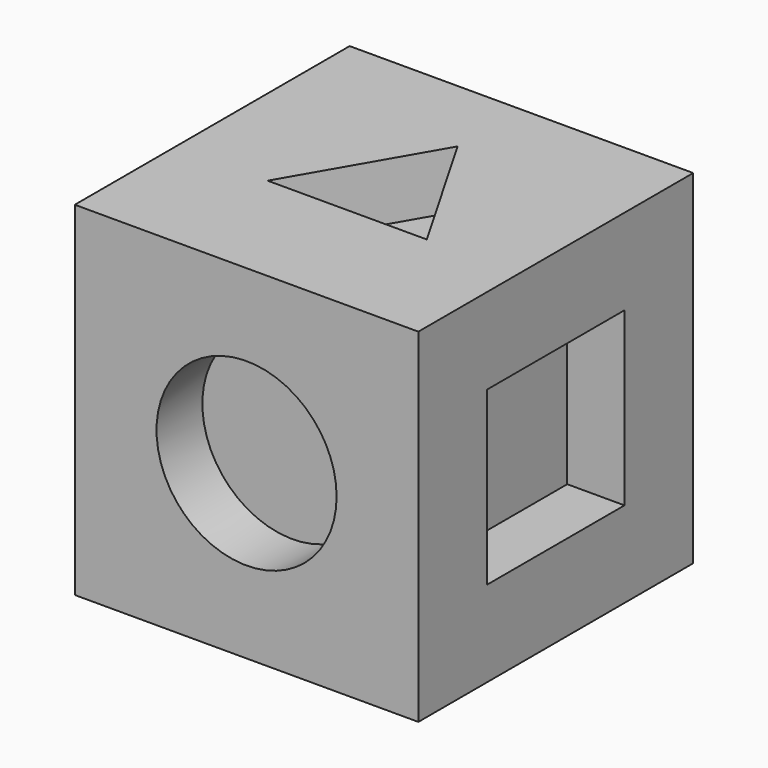
from build123d import *

# Parameters (mm, degrees)
F0_W      = 76.2
F0_H      = 76.2
F1_DEPTH  = 76.2
F2_R      = 19.9669900024
F3_DEPTH  = 12.7
F5_DEPTH  = 12.7
F6_W      = 38.1
F6_H      = 38.1
F7_DEPTH  = 12.7
F9_DEPTH  = 12.7
F11_DEPTH = 12.7
F13_DEPTH = 12.7


with BuildPart() as f1:
    # F0 (on Front) → F1 (new body)
    with BuildSketch(Plane.XZ):
        Rectangle(F0_W, F0_H)
    extrude(amount=F1_DEPTH)

    # F2 (on face) → F3 (cut)
    with BuildSketch(Plane.XZ.offset(76.2)):
        Circle(F2_R)
        Circle(F2_R)
    extrude(amount=-F3_DEPTH, mode=Mode.SUBTRACT)

    # F4 (on face) → F5 (cut)
    with BuildSketch(Plane.XY.offset(38.1)):
        Polygon((17.6528156414, -48.2918578625), (0, -17.716284275), (-17.6528156414, -48.2918578625), align=None)
    extrude(amount=-F5_DEPTH, mode=Mode.SUBTRACT)

    # F6 (on face) → F7 (cut)
    with BuildSketch(Plane.YZ.offset(38.1)):
        with Locations((-38.1, 0)):
            Rectangle(F6_W, F6_H)
    extrude(amount=-F7_DEPTH, mode=Mode.SUBTRACT)

    # F8 (on face) → F9 (cut)
    with BuildSketch(Plane(origin=(-38.1, 0, 0), x_dir=(0, -1, 0), z_dir=(-1, 0, 0))):
        Polygon((38.1, -11.9736748281), (50.0736748281, -23.9473496562), (62.0473496562, -11.9736748281), (50.0736748281, 0), (62.0473496562, 11.9736748281), (50.0736748281, 23.9473496562), (38.1, 11.9736748281), (26.1263251719, 23.9473496562), (14.1526503438, 11.9736748281), (26.1263251719, 0), (14.1526503438, -11.9736748281), (26.1263251719, -23.9473496562), align=None)
    extrude(amount=-F9_DEPTH, mode=Mode.SUBTRACT)

    # F10 (on face) → F11 (cut)
    with BuildSketch(Plane(origin=(0, 0, 0), x_dir=(-1, 0, 0), z_dir=(0, 1, 0))):
        Polygon((-12.7, 21.9970452561), (-25.4, 0), (-12.7, -21.9970452561), (12.7, -21.9970452561), (25.4, 0), (12.7, 21.9970452561), align=None)
    extrude(amount=-F11_DEPTH, mode=Mode.SUBTRACT)

    # F12 (on face) → F13 (cut)
    with BuildSketch(Plane(origin=(0, 0, -38.1), x_dir=(1, 0, 0), z_dir=(0, 0, -1))):
        Polygon((-9.2270901057, 44.0961266285), (2.1782204995, 47.8019366858), (-9.2270901057, 63.5), align=None)
        Polygon((-9.2270901057, 32.1038733715), (-9.2270901057, 44.0961266285), (-27.681270317, 38.1), align=None)
        Polygon((9.2270901057, 38.1), (2.1782204995, 47.8019366858), (-9.2270901057, 44.0961266285), (-9.2270901057, 32.1038733715), (2.1782204995, 28.3980633142), align=None)
        Polygon((-9.2270901057, 12.7), (2.1782204995, 28.3980633142), (-9.2270901057, 32.1038733715), align=None)
        Polygon((20.6324007108, 22.4019366858), (9.2270901057, 38.1), (2.1782204995, 28.3980633142), align=None)
        Polygon((9.2270901057, 38.1), (20.6324007108, 53.7980633142), (2.1782204995, 47.8019366858), align=None)
    extrude(amount=-F13_DEPTH, mode=Mode.SUBTRACT)


solid = f1.part
